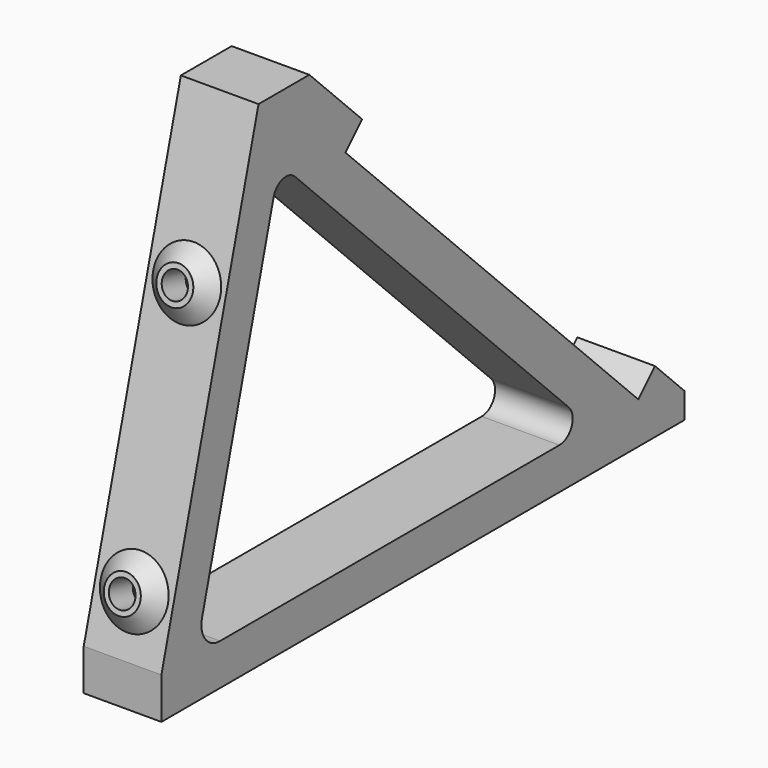
from build123d import *

# Parameters (mm, degrees)
PAD_DEPTH       = 15
SKETCH001_R     = 2.5
POCKET_DEPTH    = 6
SKETCH002_R     = 2.486179
SKETCH002_R_2   = 2.528636
POCKET001_DEPTH = 6


with BuildPart() as part:
    # Sketch → Pad (new body)
    with BuildSketch(Plane.YZ):
        Polygon((-126.2253788048, 0), (0, 0), (0, 5), (-7.0710678119, 12.0710678119), (-11.1015764646, 8.0405591591), (-81.8122545833, 78.7512372778), (-77.7817459305, 82.7817459305), (-90.5096679919, 95.5096679919), (-102.7772339365, 95.5096679919), (-126.2253788048, 8), align=None)
        with BuildLine():
            Line((-93.9680126151, 79.5932868106), (-27.8685100548, 13.4937842503))
            ThreePointArc((-30.14411, 8), (-27.1708953887, 9.9866384892), (-27.8685100548, 13.4937842503))
            Line((-30.14411, 8), (-112.060173, 8))
            ThreePointArc((-116.4205378609, 13.6825381216), (-115.6415142719, 9.7661220673), (-112.060173, 8))
            Line((-116.4205378609, 13.6825381216), (-99.1304524836, 78.2100152169))
            ThreePointArc((-93.9680126151, 79.5932868106), (-96.9485486629, 80.3919190376), (-99.1304524836, 78.2100152169))
        make_face(mode=Mode.SUBTRACT)
    extrude(amount=PAD_DEPTH)

    # Sketch001 (on Face8 of Pad) → Pocket (cut)
    with BuildSketch(Plane(origin=(0, 2.5, 2.5), x_dir=(0, -0.7071067812, 0.7071067812), z_dir=(0, 0.7071067812, 0.7071067812))):
        with Locations((8.5355339059, 7.6199603564)):
            Circle(SKETCH001_R)
        with Locations((124.5355339037, 7.6192468054)):
            Circle(SKETCH001_R)
    extrude(amount=-POCKET_DEPTH, mode=Mode.SUBTRACT)

    # Cone → Cone (revolve)
    with BuildSketch(Plane(origin=(7.5, -123.3933483575, 18.569281518), x_dir=(0, -0.2588190451, -0.9659258263), z_dir=(-1, 0, 0))):
        Polygon((0, 0), (6.5, 0), (3.5, 3), (0, 3), align=None)
    revolve(axis=Axis((7.5, -123.3933483575, 18.569281518), (0, -0.9659258263, 0.2588190451)))

    # Cone001 → Cone001 (revolve)
    with BuildSketch(Plane(origin=(7.5, -110.7112151475, 65.8996470062), x_dir=(0, -0.2588190451, -0.9659258263), z_dir=(-1, 0, 0))):
        Polygon((0, 0), (6.5, 0), (3.5, 3), (0, 3), align=None)
    revolve(axis=Axis((7.5, -110.7112151475, 65.8996470062), (0, -0.9659258263, 0.2588190451)))

    # Sketch002 (on Face21 of Cone001) → Pocket001 (cut)
    with BuildSketch(Plane(origin=(7.5, -113.6089926263, 66.6761041415), x_dir=(0, -0.2588190451, -0.9659258263), z_dir=(0, -0.9659258263, 0.2588190451))):
        Circle(SKETCH002_R)
        with Locations((48.9999960198, -0.01975)):
            Circle(SKETCH002_R_2)
    extrude(amount=-POCKET001_DEPTH, mode=Mode.SUBTRACT)


solid = part.part
